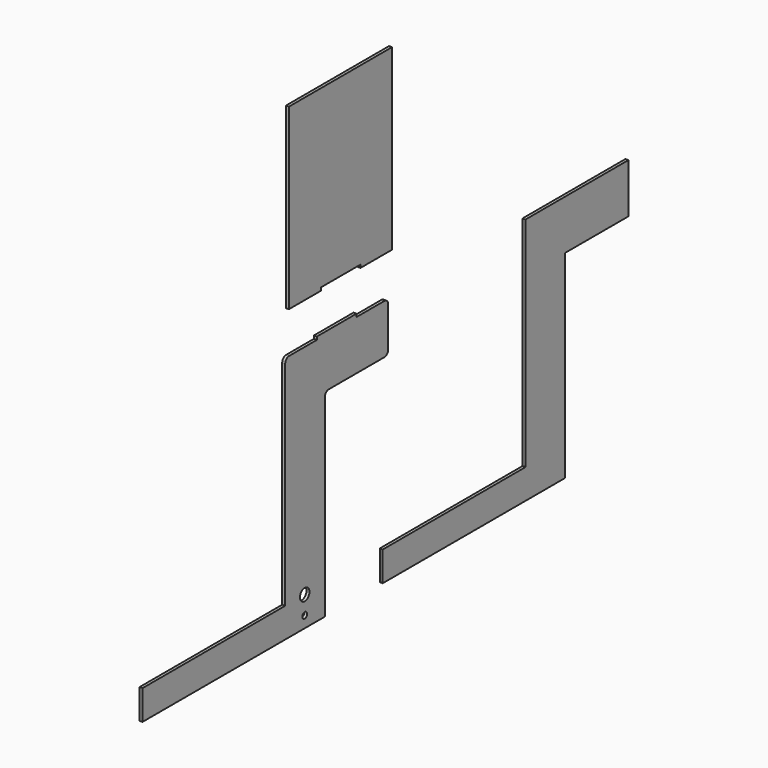
from build123d import *

# Parameters (mm, degrees)
F0_R     = 3
F0_R_2   = 6
F1_DEPTH = 3


with BuildPart() as f1:
    # F0 (on Right) → F1 (new body)
    with BuildSketch(Plane.YZ):
        Polygon((130, 42.160962), (0, 42.160962), (0, -177.839038), (-180, -177.839038), (-180, -207.839038), (50, -207.839038), (50, -7.839038), (130, -7.839038), align=None)
        with BuildLine():
            Line((-263.052582, 42.160962), (-298.052582, 42.160962))
            ThreePointArc((-298.052582, 42.160962), (-301.588115, 40.696496), (-303.052582, 37.160962))
            Line((-303.052582, 37.160962), (-303.052582, -177.839038))
            Line((-303.052582, -177.839038), (-483.052582, -177.839038))
            Line((-483.052582, -177.839038), (-483.052582, -207.839038))
            Line((-483.052582, -207.839038), (-253.052582, -207.839038))
            Line((-253.052582, -207.839038), (-253.052582, -12.839038))
            ThreePointArc((-253.052582, -12.839038), (-251.588115, -9.303504), (-248.052582, -7.839038))
            Line((-248.052582, -7.839038), (-178.052582, -7.839038))
            ThreePointArc((-178.052582, -7.839038), (-174.517048, -6.374572), (-173.052582, -2.839038))
            Line((-173.052582, -2.839038), (-173.052582, 37.160962))
            ThreePointArc((-173.052582, 37.160962), (-174.517048, 40.696496), (-178.052582, 42.160962))
            Line((-178.052582, 42.160962), (-213.052582, 42.160962))
            Line((-213.052582, 42.160962), (-213.052582, 45.160962))
            Line((-213.052582, 45.160962), (-263.052582, 45.160962))
            Line((-263.052582, 45.160962), (-263.052582, 42.160962))
        make_face()
        with Locations((-278.444022, -196.310371)):
            Circle(F0_R, mode=Mode.SUBTRACT)
        with Locations((-278.444022, -177.839038)):
            Circle(F0_R_2, mode=Mode.SUBTRACT)
        Polygon((-298.358291, 263.74732), (-298.358291, 83.74732), (-258.011132, 83.74732), (-258.011132, 86.74732), (-208.011132, 86.74732), (-208.011132, 83.74732), (-168.358291, 83.74732), (-168.358291, 263.74732), align=None)
    extrude(amount=-F1_DEPTH)


solid = f1.part
